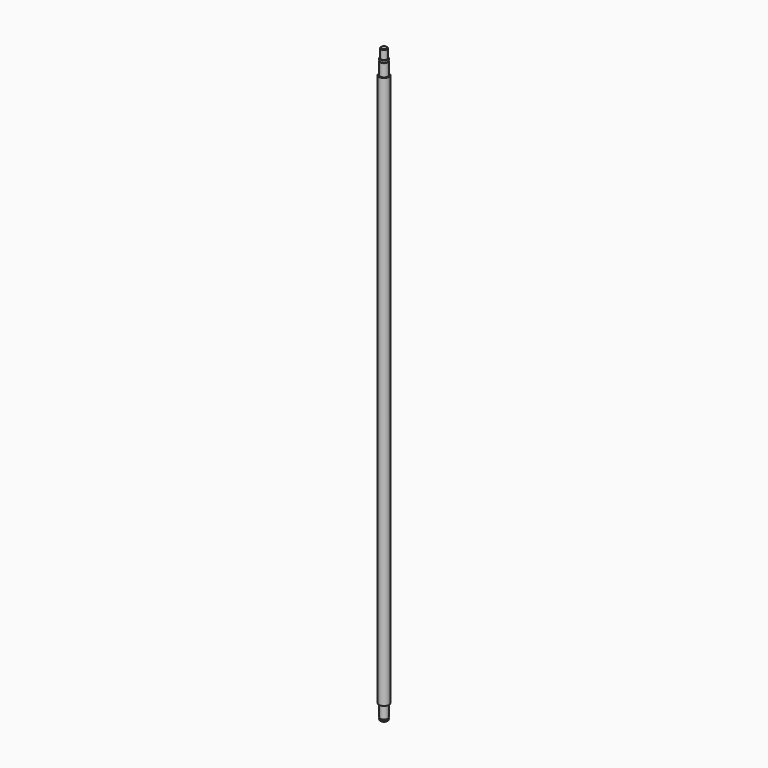
from build123d import *

# Parameters (mm, degrees)
F0_R      = 6
F1_DEPTH  = 3
F2_R      = 4.8
F3_DEPTH  = 1.15
F4_R      = 6
F4_R_2    = 4.8
F5_DEPTH  = 20
F6_R      = 8
F6_R_2    = 6
F7_DEPTH  = 890
F8_R      = 6
F9_DEPTH  = 20
F10_R     = 4.8
F11_DEPTH = 1.15
F12_R     = 6
F12_R_2   = 4.8
F13_DEPTH = 3
F14_R     = 5
F15_DEPTH = 15
F16_SIZE  = 1


with BuildPart() as f1:
    # F0 (on Top) → F1 (new body)
    with BuildSketch(Plane.XY):
        Circle(F0_R)
    extrude(amount=F1_DEPTH)

    # F2 (on face) → F3 (join)
    with BuildSketch(Plane.XY.offset(3)):
        Circle(F2_R)
    extrude(amount=F3_DEPTH)

    # F4 (on face) → F5 (join)
    with BuildSketch(Plane.XY.offset(4.15)):
        Circle(F4_R)
        Circle(F4_R_2, mode=Mode.SUBTRACT)
        Circle(F4_R_2)
    extrude(amount=F5_DEPTH)

    # F6 (on face) → F7 (join)
    with BuildSketch(Plane.XY.offset(24.15)):
        Circle(F6_R)
        Circle(F6_R_2, mode=Mode.SUBTRACT)
        Circle(F6_R_2)
    extrude(amount=F7_DEPTH)

    # F8 (on face) → F9 (join)
    with BuildSketch(Plane.XY.offset(914.15)):
        Circle(F8_R)
    extrude(amount=F9_DEPTH)

    # F10 (on face) → F11 (join)
    with BuildSketch(Plane.XY.offset(934.15)):
        Circle(F10_R)
    extrude(amount=F11_DEPTH)

    # F12 (on face) → F13 (join)
    with BuildSketch(Plane.XY.offset(935.3)):
        Circle(F12_R)
        Circle(F12_R_2, mode=Mode.SUBTRACT)
        Circle(F12_R_2)
    extrude(amount=F13_DEPTH)

    # F14 (on face) → F15 (join)
    with BuildSketch(Plane.XY.offset(938.3)):
        Circle(F14_R)
    extrude(amount=F15_DEPTH)

    # F16
    f16_edges = [f1.edges().sort_by_distance(p)[0] for p in [
        (-5, 0, 953.3),
        (-6, 0, 0),
    ]]
    chamfer(f16_edges, length=F16_SIZE)


solid = f1.part
